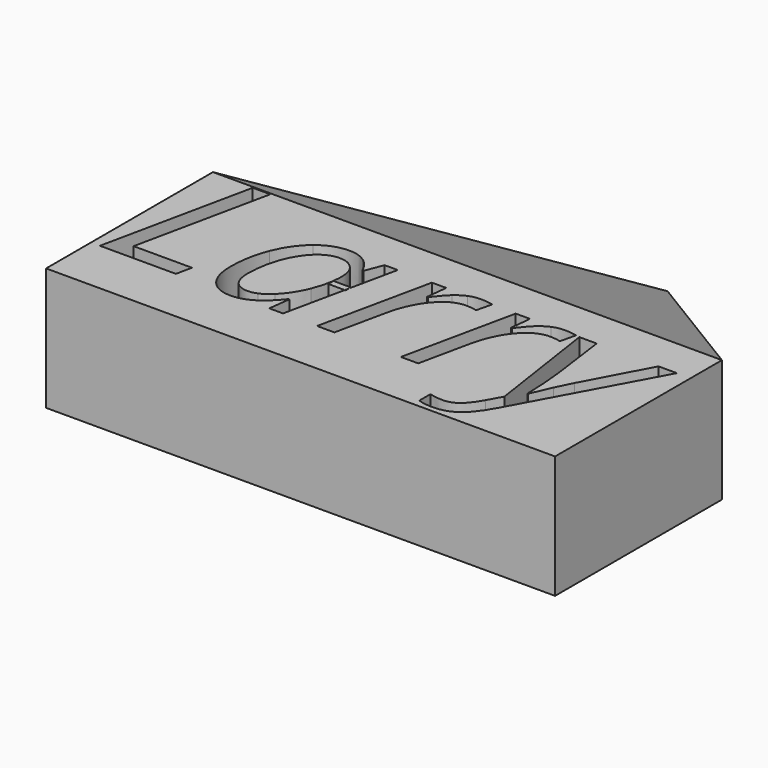
from build123d import *

# Parameters (mm, degrees)
F0_W      = 105.3100518572
F0_H      = 43.1510657072
F1_DEPTH  = 25.4
F1_FACE_W = 105.3100518572
F1_FACE_H = 25.4


with BuildPart() as f1:
    # F0 (on Top) → F1 (new body)
    with BuildSketch(Plane.XY):
        with Locations((-22.4444870061, -21.5755328536)):
            Rectangle(F0_W, F0_H)
        with BuildLine():
            Line((10.7347830199, -31.9166990618), (7.1831606328, -8.0955092174))
            Line((7.1831606328, -8.0955092174), (10.7758422382, -8.0955092174))
            Line((10.7758422382, -8.0955092174), (12.3634653476, -19.7494840249))
            add(Edge.make_bspline(
                [(12.3634653476, -19.7494840249), (12.5756046424, -21.2276158854), (12.7774791326, -24.1017611697)],
                knots=[0, 0, 0, 1, 1, 1], degree=2))
            add(Edge.make_bspline(
                [(12.7774791326, -24.1017611697), (12.9793536228, -26.975906454), (12.9793536228, -28.7346096399)],
                knots=[0, 0, 0, 1, 1, 1], degree=2))
            Line((12.9793536228, -28.7346096399), (13.1093744809, -28.7346096399))
            add(Edge.make_bspline(
                [(13.1093744809, -28.7346096399), (13.8552836142, -26.8732584082), (14.9673041111, -24.4541861272)],
                knots=[0, 0, 0, 1, 1, 1], degree=2))
            add(Edge.make_bspline(
                [(14.9673041111, -24.4541861272), (16.079324608, -22.0351138463), (16.6130944466, -21.1181246365)],
                knots=[0, 0, 0, 1, 1, 1], degree=2))
            Line((16.6130944466, -21.1181246365), (23.5657887533, -8.0955092174))
            Line((23.5657887533, -8.0955092174), (27.3706096535, -8.0955092174))
            Line((27.3706096535, -8.0955092174), (12.4866430027, -35.5093806672))
            add(Edge.make_bspline(
                [(12.4866430027, -35.5093806672), (10.5021141159, -39.1910239123), (8.5552228459, -40.6246749529)],
                knots=[0, 0, 0, 1, 1, 1], degree=2))
            add(Edge.make_bspline(
                [(8.5552228459, -40.6246749529), (6.608331576, -42.0583259935), (3.8710503529, -42.0583259935)],
                knots=[0, 0, 0, 1, 1, 1], degree=2))
            add(Edge.make_bspline(
                [(3.8710503529, -42.0583259935), (2.3313296648, -42.0583259935), (0.8737274135, -41.6066745917)],
                knots=[0, 0, 0, 1, 1, 1], degree=2))
            Line((0.8737274135, -41.6066745917), (0.8737274135, -38.7188429013))
            add(Edge.make_bspline(
                [(0.8737274135, -38.7188429013), (2.2218384159, -39.1020622725), (3.6794406672, -39.1020622725)],
                knots=[0, 0, 0, 1, 1, 1], degree=2))
            add(Edge.make_bspline(
                [(3.6794406672, -39.1020622725), (5.43130065, -39.1020622725), (6.6836068096, -38.0242577909)],
                knots=[0, 0, 0, 1, 1, 1], degree=2))
            add(Edge.make_bspline(
                [(6.6836068096, -38.0242577909), (7.9359129692, -36.9464533093), (9.1129438952, -34.8250603614)],
                knots=[0, 0, 0, 1, 1, 1], degree=2))
            Line((9.1129438952, -34.8250603614), (10.7347830199, -31.9166990618))
        make_face(mode=Mode.SUBTRACT)
        Polygon((-57.5398538883, -31.5334796906), (-73.2586913121, -31.5334796906), (-66.6550003613, -0.2668849193), (-63.0144163345, -0.2668849193), (-68.9201005735, -28.2418990197), (-56.8350039733, -28.2418990197), align=None, mode=Mode.SUBTRACT)
        with BuildLine():
            add(Edge.make_bspline(
                [(-40.7834376307, -30.072049337), (-41.8182234846, -30.862783876), (-42.8802333772, -31.323138556)],
                knots=[0.3785049089, 0.3785049089, 0.3785049089, 0.638174179, 0.638174179, 0.638174179], degree=2))
            add(Edge.make_bspline(
                [(-42.8802333772, -31.323138556), (-44.3600488412, -31.9646014832), (-45.8927222838, -31.9646014832)],
                knots=[0.638174179, 0.638174179, 0.638174179, 1, 1, 1], degree=2))
            add(Edge.make_bspline(
                [(-45.8927222838, -31.9646014832), (-48.8626724109, -31.9646014832), (-50.5529435662, -29.8466301368)],
                knots=[0, 0, 0, 1, 1, 1], degree=2))
            add(Edge.make_bspline(
                [(-50.5529435662, -29.8466301368), (-52.2432147215, -27.7286587904), (-52.2432147215, -24.0470155453)],
                knots=[0, 0, 0, 1, 1, 1], degree=2))
            add(Edge.make_bspline(
                [(-52.2432147215, -24.0470155453), (-52.2432147215, -19.5989335577), (-50.7240236426, -15.7941126575)],
                knots=[0, 0, 0, 1, 1, 1], degree=2))
            add(Edge.make_bspline(
                [(-50.7240236426, -15.7941126575), (-49.2048325638, -11.9892917573), (-46.5325617697, -9.8268395911)],
                knots=[0, 0, 0, 1, 1, 1], degree=2))
            add(Edge.make_bspline(
                [(-46.5325617697, -9.8268395911), (-43.8602909756, -7.6643874248), (-40.6713583507, -7.6643874248)],
                knots=[0, 0, 0, 1, 1, 1], degree=2))
            add(Edge.make_bspline(
                [(-40.6713583507, -7.6643874248), (-38.7073590731, -7.6643874248), (-37.167638385, -8.7250838988)],
                knots=[0, 0, 0, 1, 1, 1], degree=2))
            add(Edge.make_bspline(
                [(-37.167638385, -8.7250838988), (-35.627917697, -9.7857803727), (-34.7725173148, -11.7703092595)],
                knots=[0, 0, 0, 1, 1, 1], degree=2))
            Line((-34.7725173148, -11.7703092595), (-34.5330052078, -11.7703092595))
            Line((-34.5330052078, -11.7703092595), (-33.1027757687, -8.0955092174))
            Line((-33.1027757687, -8.0955092174), (-30.3860241547, -8.0955092174))
            Line((-30.3860241547, -8.0955092174), (-32.4969105422, -18.0265337741))
            Line((-32.4969105422, -18.0265337741), (-32.4969105422, -18.9186204225))
            Line((-32.4969105422, -18.9186204225), (-32.6865277919, -18.9186204225))
            Line((-32.6865277919, -18.9186204225), (-35.3678759808, -31.5334796906))
            Line((-35.3678759808, -31.5334796906), (-38.2146484529, -31.5334796906))
            Line((-38.2146484529, -31.5334796906), (-37.6535058022, -27.0648680938))
            Line((-37.6535058022, -27.0648680938), (-37.8245858786, -27.0648680938))
            add(Edge.make_bspline(
                [(-37.8245858786, -27.0648680938), (-39.2750900108, -28.9194412342), (-40.7834376307, -30.072049337)],
                knots=[0, 0, 0, 0.3785049089, 0.3785049089, 0.3785049089], degree=2))
        make_face(mode=Mode.SUBTRACT)
        with BuildLine():
            add(Edge.make_bspline(
                [(-15.9605521088, -8.1468332404), (-14.8587964165, -7.6643874248), (-13.5106854141, -7.6643874248)],
                knots=[0, 0, 0, 1, 1, 1], degree=2))
            add(Edge.make_bspline(
                [(-13.5106854141, -7.6643874248), (-12.0325535536, -7.6643874248), (-10.9444842674, -7.9654883593)],
                knots=[0, 0, 0, 1, 1, 1], degree=2))
            Line((-10.9444842674, -7.9654883593), (-11.7109230099, -11.1749505935))
            add(Edge.make_bspline(
                [(-11.7109230099, -11.1749505935), (-12.8468947175, -10.8943792681), (-13.9623368159, -10.8943792681)],
                knots=[0, 0, 0, 1, 1, 1], degree=2))
            add(Edge.make_bspline(
                [(-13.9623368159, -10.8943792681), (-15.9058064843, -10.8943792681), (-17.6063424442, -12.1774798414)],
                knots=[0, 0, 0, 1, 1, 1], degree=2))
            add(Edge.make_bspline(
                [(-17.6063424442, -12.1774798414), (-19.3068784041, -13.4605804148), (-20.5797141728, -15.739367033)],
                knots=[0, 0, 0, 1, 1, 1], degree=2))
            add(Edge.make_bspline(
                [(-20.5797141728, -15.739367033), (-21.8525499416, -18.0181536513), (-22.4479086076, -20.7964940928)],
                knots=[0, 0, 0, 1, 1, 1], degree=2))
            Line((-22.4479086076, -20.7964940928), (-24.740381632, -31.5334796906))
            Line((-24.740381632, -31.5334796906), (-28.3330632374, -31.5334796906))
            Line((-28.3330632374, -31.5334796906), (-23.323838599, -8.0955092174))
            Line((-23.323838599, -8.0955092174), (-20.3538884719, -8.0955092174))
            Line((-20.3538884719, -8.0955092174), (-20.8260694829, -12.4340999561))
            Line((-20.8260694829, -12.4340999561), (-20.6070869851, -12.4340999561))
            add(Edge.make_bspline(
                [(-20.6070869851, -12.4340999561), (-19.067366297, -10.4016686479), (-18.0648370491, -9.5154738519)],
                knots=[0, 0, 0, 1, 1, 1], degree=2))
            add(Edge.make_bspline(
                [(-18.0648370491, -9.5154738519), (-17.0623078011, -8.6292790559), (-15.9605521088, -8.1468332404)],
                knots=[0, 0, 0, 1, 1, 1], degree=2))
        make_face(mode=Mode.SUBTRACT)
        with BuildLine():
            add(Edge.make_bspline(
                [(1.3801244398, -8.1468332404), (2.4818801321, -7.6643874248), (3.8299911345, -7.6643874248)],
                knots=[0, 0, 0, 1, 1, 1], degree=2))
            add(Edge.make_bspline(
                [(3.8299911345, -7.6643874248), (5.308122995, -7.6643874248), (6.3961922812, -7.9654883593)],
                knots=[0, 0, 0, 1, 1, 1], degree=2))
            Line((6.3961922812, -7.9654883593), (5.6297535387, -11.1749505935))
            add(Edge.make_bspline(
                [(5.6297535387, -11.1749505935), (4.4937818311, -10.8943792681), (3.3783397327, -10.8943792681)],
                knots=[0, 0, 0, 1, 1, 1], degree=2))
            add(Edge.make_bspline(
                [(3.3783397327, -10.8943792681), (1.4348700643, -10.8943792681), (-0.2656658956, -12.1774798414)],
                knots=[0, 0, 0, 1, 1, 1], degree=2))
            add(Edge.make_bspline(
                [(-0.2656658956, -12.1774798414), (-1.9662018555, -13.4605804148), (-3.2390376242, -15.739367033)],
                knots=[0, 0, 0, 1, 1, 1], degree=2))
            add(Edge.make_bspline(
                [(-3.2390376242, -15.739367033), (-4.511873393, -18.0181536513), (-5.107232059, -20.7964940928)],
                knots=[0, 0, 0, 1, 1, 1], degree=2))
            Line((-5.107232059, -20.7964940928), (-7.3997050834, -31.5334796906))
            Line((-7.3997050834, -31.5334796906), (-10.9923866888, -31.5334796906))
            Line((-10.9923866888, -31.5334796906), (-5.9831620504, -8.0955092174))
            Line((-5.9831620504, -8.0955092174), (-3.0132119233, -8.0955092174))
            Line((-3.0132119233, -8.0955092174), (-3.4853929343, -12.4340999561))
            Line((-3.4853929343, -12.4340999561), (-3.2664104365, -12.4340999561))
            add(Edge.make_bspline(
                [(-3.2664104365, -12.4340999561), (-1.7266897485, -10.4016686479), (-0.7241605005, -9.5154738519)],
                knots=[0, 0, 0, 1, 1, 1], degree=2))
            add(Edge.make_bspline(
                [(-0.7241605005, -9.5154738519), (0.2783687475, -8.6292790559), (1.3801244398, -8.1468332404)],
                knots=[0, 0, 0, 1, 1, 1], degree=2))
        make_face(mode=Mode.SUBTRACT)
    extrude(amount=F1_DEPTH)

    # F1_face (on face) → F3 section 0
    with BuildSketch(Plane(origin=(-22.4444870061, 0, 12.7), x_dir=(-1, 0, 0), z_dir=(0, 1, 0)), mode=Mode.PRIVATE) as f3_s0:
        Rectangle(F1_FACE_W, F1_FACE_H)
    loft([Vertex(-22.1979394555, 51.449380815, 0), f3_s0.sketch])


with BuildPart() as f1b:
    # F0 (on Top) → F1, piece 2 (new body)
    with BuildSketch(Plane.XY):
        Polygon((-36.084137857, -18.9186204225), (-32.6865277919, -18.9186204225), (-32.4969105422, -18.0265337741), (-32.4969105422, -17.5723396242), (-36.084137857, -17.5723396242), align=None)
    extrude(amount=F1_DEPTH)


with BuildPart() as f1c:
    # F0 (on Top) → F1, piece 3 (new body)
    with BuildSketch(Plane.XY):
        with BuildLine():
            add(Edge.make_bspline(
                [(-44.736220967, -28.987808153), (-43.8061619461, -28.987808153), (-42.8802333772, -28.5899079344)],
                knots=[0, 0, 0, 0.448547514, 0.448547514, 0.448547514], degree=2))
            add(Edge.make_bspline(
                [(-42.8802333772, -28.5899079344), (-41.7418799247, -28.1007221562), (-40.6097695231, -27.0101224693)],
                knots=[0.448547514, 0.448547514, 0.448547514, 1, 1, 1], degree=2))
            add(Edge.make_bspline(
                [(-40.6097695231, -27.0101224693), (-38.5568086058, -25.0324367856), (-37.2737080324, -21.8571905668)],
                knots=[0, 0, 0, 1, 1, 1], degree=2))
            add(Edge.make_bspline(
                [(-37.2737080324, -21.8571905668), (-35.9906074591, -18.6819443479), (-35.9906074591, -15.493011723)],
                knots=[0, 0, 0, 1, 1, 1], degree=2))
            add(Edge.make_bspline(
                [(-35.9906074591, -15.493011723), (-35.9906074591, -13.2895003383), (-37.1881679942, -11.9858701558)],
                knots=[0, 0, 0, 1, 1, 1], degree=2))
            add(Edge.make_bspline(
                [(-37.1881679942, -11.9858701558), (-38.3857285293, -10.6822399733), (-40.3291981978, -10.6822399733)],
                knots=[0, 0, 0, 1, 1, 1], degree=2))
            add(Edge.make_bspline(
                [(-40.3291981978, -10.6822399733), (-42.5532391916, -10.6822399733), (-44.4659144462, -12.5230615959)],
                knots=[0, 0, 0, 1, 1, 1], degree=2))
            add(Edge.make_bspline(
                [(-44.4659144462, -12.5230615959), (-46.3785897009, -14.3638832184), (-47.4700805886, -17.504913422)],
                knots=[0, 0, 0, 1, 1, 1], degree=2))
            add(Edge.make_bspline(
                [(-47.4700805886, -17.504913422), (-48.5615714764, -20.6459436255), (-48.5615714764, -24.135977185)],
                knots=[0, 0, 0, 1, 1, 1], degree=2))
            add(Edge.make_bspline(
                [(-48.5615714764, -24.135977185), (-48.5615714764, -26.5721574736), (-47.5556206269, -27.7799828133)],
                knots=[0, 0, 0, 1, 1, 1], degree=2))
            add(Edge.make_bspline(
                [(-47.5556206269, -27.7799828133), (-46.5496697774, -28.987808153), (-44.736220967, -28.987808153)],
                knots=[0, 0, 0, 1, 1, 1], degree=2))
        make_face()
    extrude(amount=F1_DEPTH)


solid = Compound([f1.part, f1b.part, f1c.part])
